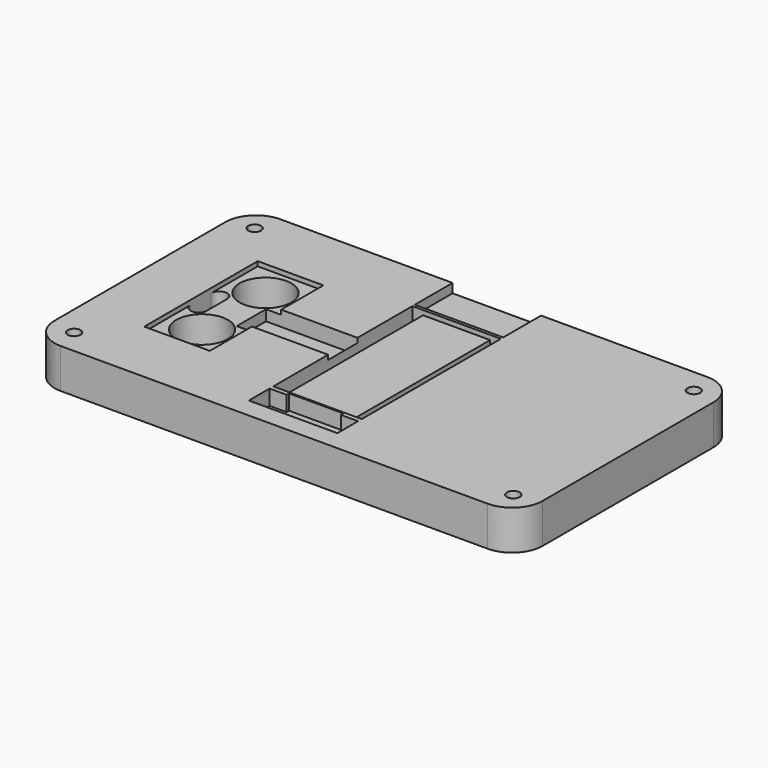
from build123d import *

# Parameters (mm, degrees)
SKETCH018_W         = 160
SKETCH018_H         = 90
PAD004_DEPTH        = 13
HOLE005_D           = 3.5
HOLE005_DEPTH       = 10
HOLE005_CBORE_D     = 4.2
HOLE005_CBORE_DEPTH = 5.2
HOLE005_TIPS_R      = 1.75
SKETCH020_R         = 8.5
POCKET008_DEPTH     = 13.001
SKETCH021_W         = 5
SKETCH021_H         = 12
SKETCH021_W_2       = 3.5
SKETCH021_H_2       = 57
SKETCH021_W_3       = 29
SKETCH021_H_3       = 10
POCKET009_DEPTH     = 5
SKETCH022_W         = 21.5
SKETCH022_H         = 46.5
SKETCH022_W_2       = 29
SKETCH022_H_2       = 57
SKETCH022_W_3       = 30
SKETCH022_H_3       = 12
POCKET010_DEPTH     = 1.5
SKETCH031_R         = 25.5
SKETCH031_R_2       = 22.5
POCKET016_DEPTH     = 7
PAD_DEPTH           = 5
FILLET_R            = 10
SKETCH034_W         = 29
SKETCH034_H         = 15.5
POCKET018_DEPTH     = 3
POCKET019_DEPTH     = 5
POCKET021_DEPTH     = 12


with BuildPart() as part:
    # Sketch018 → Pad004 (new body)
    with BuildSketch(Plane.XY):
        with Locations((-80, 0)):
            Rectangle(SKETCH018_W, SKETCH018_H)
    extrude(amount=-PAD004_DEPTH)

    # Hole005
    with Locations(Plane.XY):
        with Locations((-152, 37), (-8, 37), (-152, -37), (-8, -37)):
            CounterBoreHole(HOLE005_D / 2, HOLE005_CBORE_D / 2, HOLE005_CBORE_DEPTH, depth=HOLE005_DEPTH)

    # Hole005 tips → Hole005 tip 1 section 0
    with BuildSketch(Plane.XY.offset(-10), mode=Mode.PRIVATE) as hole005_tip_1_s0:
        with Locations((-152, 37)):
            Circle(HOLE005_TIPS_R)
    loft([hole005_tip_1_s0.sketch, Vertex(-152, 37, -11.051506)], mode=Mode.SUBTRACT)

    # Hole005 tips → Hole005 tip 2 section 0
    with BuildSketch(Plane.XY.offset(-10), mode=Mode.PRIVATE) as hole005_tip_2_s0:
        with Locations((-8, 37)):
            Circle(HOLE005_TIPS_R)
    loft([hole005_tip_2_s0.sketch, Vertex(-8, 37, -11.051506)], mode=Mode.SUBTRACT)

    # Hole005 tips → Hole005 tip 3 section 0
    with BuildSketch(Plane.XY.offset(-10), mode=Mode.PRIVATE) as hole005_tip_3_s0:
        with Locations((-152, -37)):
            Circle(HOLE005_TIPS_R)
    loft([hole005_tip_3_s0.sketch, Vertex(-152, -37, -11.051506)], mode=Mode.SUBTRACT)

    # Hole005 tips → Hole005 tip 4 section 0
    with BuildSketch(Plane.XY.offset(-10), mode=Mode.PRIVATE) as hole005_tip_4_s0:
        with Locations((-8, -37)):
            Circle(HOLE005_TIPS_R)
    loft([hole005_tip_4_s0.sketch, Vertex(-8, -37, -11.051506)], mode=Mode.SUBTRACT)

    # Sketch020 (on Face4 of Hole005) → Pocket008 (cut, through all)
    with BuildSketch(Plane.XY):
        with Locations((-129.25, 13)):
            Circle(SKETCH020_R)
        with Locations((-129.25, -13)):
            Circle(SKETCH020_R)
    extrude(amount=-POCKET008_DEPTH, mode=Mode.SUBTRACT)

    # Sketch021 (on Face4 of Pocket008) → Pocket009 (cut)
    with BuildSketch(Plane.XY):
        with Locations((-121, 0)):
            Rectangle(SKETCH021_W, SKETCH021_H)
        with Locations((-91.75, 0)):
            Rectangle(SKETCH021_W_2, SKETCH021_H_2)
        with Locations((-66.25, 0)):
            Rectangle(SKETCH021_W_2, SKETCH021_H_2)
        with Locations((-79, -33.5)):
            Rectangle(SKETCH021_W_3, SKETCH021_H_3)
    extrude(amount=-POCKET009_DEPTH, mode=Mode.SUBTRACT)

    # Sketch022 (on Face4 of Pocket009) → Pocket010 (cut)
    with BuildSketch(Plane.XY):
        with Locations((-129.25, 0)):
            Rectangle(SKETCH022_W, SKETCH022_H)
        with Locations((-79, 0)):
            Rectangle(SKETCH022_W_2, SKETCH022_H_2)
        with Locations((-108.5, 0)):
            Rectangle(SKETCH022_W_3, SKETCH022_H_3)
    extrude(amount=-POCKET010_DEPTH, mode=Mode.SUBTRACT)

    # Sketch031 (on Face7 of Pocket010) → Pocket016 (cut)
    with BuildSketch(Plane(origin=(0, 0, -13), x_dir=(1, 0, 0), z_dir=(0, 0, -1))):
        with Locations((-129.25, 0)):
            Circle(SKETCH031_R)
        with Locations((-129.25, 0)):
            Circle(SKETCH031_R_2, mode=Mode.SUBTRACT)
    extrude(amount=-POCKET016_DEPTH, mode=Mode.SUBTRACT)

    # Sketch033 (on Face8 of Pocket016) → Pad (join)
    with BuildSketch(Plane.XY.offset(-5)):
        Polygon((-87.9, -29), (-70.1, -29), (-70.1, -30), (-64.5, -30), (-64.5, -28.5), (-93.5, -28.5), (-93.5, -30), (-87.9, -30), align=None)
    extrude(amount=PAD_DEPTH)

    # Fillet
    fillet_edges = [part.edges().sort_by_distance(p)[0] for p in [
        (0, 45, -6.5),
        (0, -45, -6.5),
        (-160, -45, -6.5),
        (-160, 45, -6.5),
    ]]
    fillet(fillet_edges, radius=FILLET_R)

    # Sketch034 (on Face35 of Pad) → Pocket018 (cut)
    with BuildSketch(Plane.XY):
        with Locations((-79, 37.25)):
            Rectangle(SKETCH034_W, SKETCH034_H)
    extrude(amount=-POCKET018_DEPTH, mode=Mode.SUBTRACT)

    # Sketch035 (on Face48 of Pocket018) → Pocket019 (cut)
    with BuildSketch(Plane.XY.offset(-1.5)):
        with BuildLine():
            ThreePointArc((-134.8, 4.2), (-137.4, 6.8), (-140, 4.2))
            Line((-140, 4.2), (-140, -4.2))
            ThreePointArc((-140, -4.2), (-137.4, -6.8), (-134.8, -4.2))
            Line((-134.8, 4.2), (-134.8, -4.2))
        make_face()
    extrude(amount=-POCKET019_DEPTH, mode=Mode.SUBTRACT)

    # Sketch038 (on Face29 of Pocket019) → Pocket021 (cut)
    with BuildSketch(Plane.XZ.offset(-6)):
        with BuildLine():
            Line((-118.5, -5), (-118.5, -1.5))
            Line((-118.5, -1.5), (-93.5, -1.5))
            Line((-93.5, -1.5), (-96.414214, -4.414214))
            ThreePointArc((-97.828427, -5), (-97.06306, -4.847759), (-96.414214, -4.414214))
            Line((-118.5, -5), (-97.828427, -5))
        make_face()
    extrude(amount=POCKET021_DEPTH, mode=Mode.SUBTRACT)


solid = part.part
